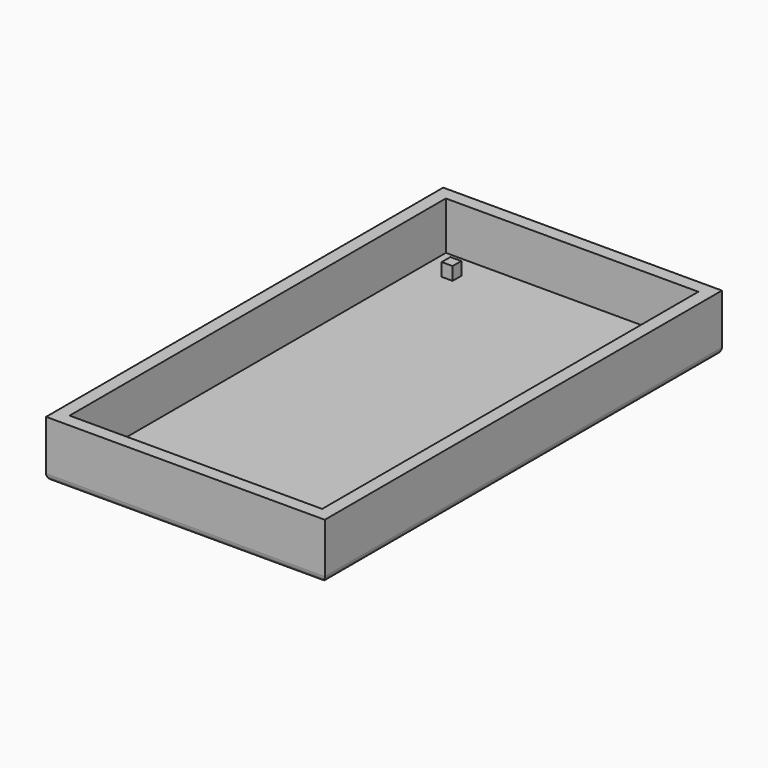
from build123d import *

# Parameters (mm, degrees)
SKETCH_W     = 64
SKETCH_H     = 114
PAD_DEPTH    = 13
SKETCH002_W  = 58
SKETCH002_H  = 108
POCKET_DEPTH = 11
SKETCH007_W  = 2.5
SKETCH007_H  = 2.5
PAD001_DEPTH = 3
FILLET_R     = 1.5


with BuildPart() as part:
    # Sketch → Pad (new body)
    with BuildSketch(Plane.XY):
        with Locations((4.5, 30)):
            Rectangle(SKETCH_W, SKETCH_H)
    extrude(amount=PAD_DEPTH)

    # Sketch002 → Pocket (cut)
    with BuildSketch(Plane.XY.offset(13)):
        with Locations((4.5, 30)):
            Rectangle(SKETCH002_W, SKETCH002_H)
    extrude(amount=-POCKET_DEPTH, mode=Mode.SUBTRACT)

    # Sketch007 → Pad001 (new body)
    with BuildSketch(Plane.XY.offset(2)):
        with Locations((-18, 77.5)):
            Rectangle(SKETCH007_W, SKETCH007_H)
        with Locations((27, 77.5)):
            Rectangle(SKETCH007_W, SKETCH007_H)
        with Locations((-18, -17.5)):
            Rectangle(SKETCH007_W, SKETCH007_H)
        with Locations((27, -17.5)):
            Rectangle(SKETCH007_W, SKETCH007_H)
    extrude(amount=PAD001_DEPTH)

    # Fillet
    fillet_edges = [part.edges().sort_by_distance(p)[0] for p in [
        (4.5, 87, 0),
        (-27.5, 30, 0),
        (36.5, 30, 0),
        (4.5, -27, 0),
    ]]
    fillet(fillet_edges, radius=FILLET_R)


solid = part.part
